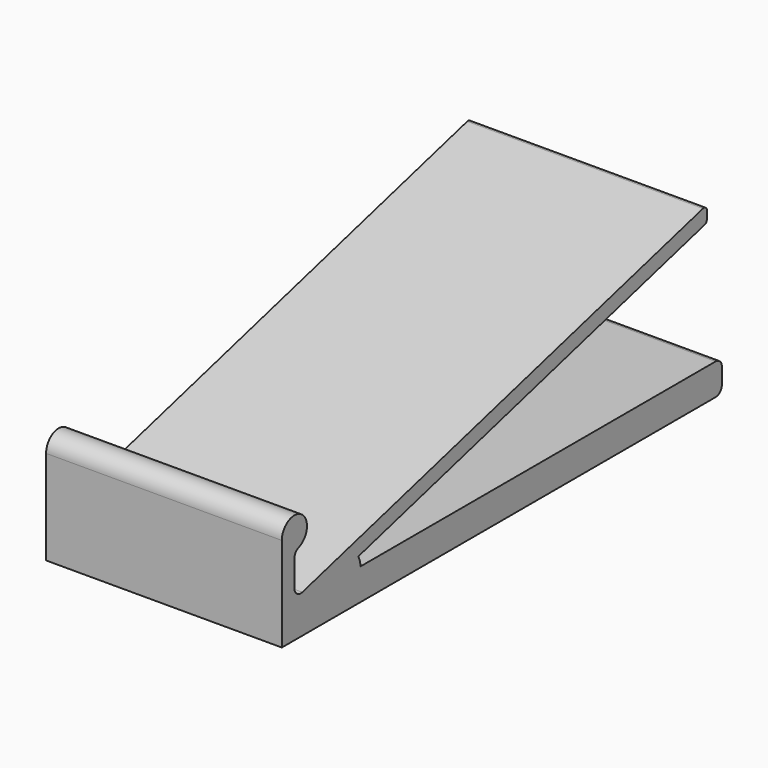
from build123d import *

# Parameters (mm, degrees)
SKETCH_W     = 30
SKETCH_H     = 70
PAD_DEPTH    = 4
PAD001_DEPTH = 30
PAD002_DEPTH = 30
SKETCH003_R  = 5.125
POCKET_DEPTH = 1.15
FILLET_R     = 0.5
FILLET001_R  = 0.5
FILLET002_R  = 1
FILLET003_R  = 1
FILLET004_R  = 1
FILLET005_R  = 1


with BuildPart() as part:
    # Sketch → Pad (new body)
    with BuildSketch(Plane.XY):
        with Locations((15, 35)):
            Rectangle(SKETCH_W, SKETCH_H)
    extrude(amount=PAD_DEPTH)

    # Sketch001 (on Face4 of Pad) → Pad001 (join)
    with BuildSketch(Plane(origin=(0, 0, 0), x_dir=(0, -1, 0), z_dir=(-1, 0, 0))):
        with BuildLine():
            Line((0, 4), (-67.614808, 22.117333))
            Line((-67.614808, 22.117333), (-67.614808, 20.117333))
            Line((-67.614808, 20.117333), (-12.160236, 5.258325))
            ThreePointArc((-12.160236, 5.258325), (-10.651694, 1.586435), (-7.5, 4))
            Line((-7.5, 4), (0, 2))
            Line((0, 2), (0, 4))
        make_face()
    extrude(amount=-PAD001_DEPTH)

    # Sketch002 (on Face5 of Pad001) → Pad002 (join)
    with BuildSketch(Plane(origin=(0, 0, 0), x_dir=(0, -1, 0), z_dir=(-1, 0, 0))):
        with BuildLine():
            Line((0, 0), (-2, 0))
            Line((-2, 0), (-2, 10))
            ThreePointArc((0, 12), (-3.414214, 13.414214), (-2, 10))
            Line((0, 12), (0, 0))
        make_face()
    extrude(amount=-PAD002_DEPTH)

    # Sketch003 (on Face6 of Pad002) → Pocket (cut)
    with BuildSketch(Plane(origin=(0, 0, 0), x_dir=(1, 0, 0), z_dir=(0, 0, -1))):
        with Locations((6, -6)):
            Circle(SKETCH003_R)
        with Locations((24, -6)):
            Circle(SKETCH003_R)
        with Locations((6, -64)):
            Circle(SKETCH003_R)
        with Locations((24, -64)):
            Circle(SKETCH003_R)
    extrude(amount=-POCKET_DEPTH, mode=Mode.SUBTRACT)

    # Fillet
    fillet_edges = [part.edges().sort_by_distance(p)[0] for p in [
        (15, 67.614808, 22.117333),
    ]]
    fillet(fillet_edges, radius=FILLET_R)

    # Fillet001
    fillet001_edges = [part.edges().sort_by_distance(p)[0] for p in [
        (15, 67.614808, 20.117333),
    ]]
    fillet(fillet001_edges, radius=FILLET001_R)

    # Fillet002
    fillet002_edges = [part.edges().sort_by_distance(p)[0] for p in [
        (15, 70, 4),
    ]]
    fillet(fillet002_edges, radius=FILLET002_R)

    # Fillet003
    fillet003_edges = [part.edges().sort_by_distance(p)[0] for p in [
        (15, 70, 0),
    ]]
    fillet(fillet003_edges, radius=FILLET003_R)

    # Fillet004
    fillet004_edges = [part.edges().sort_by_distance(p)[0] for p in [
        (15, 2, 4.535898),
    ]]
    fillet(fillet004_edges, radius=FILLET004_R)

    # Fillet005
    fillet005_edges = [part.edges().sort_by_distance(p)[0] for p in [
        (15, 2, 10),
    ]]
    fillet(fillet005_edges, radius=FILLET005_R)


solid = part.part
